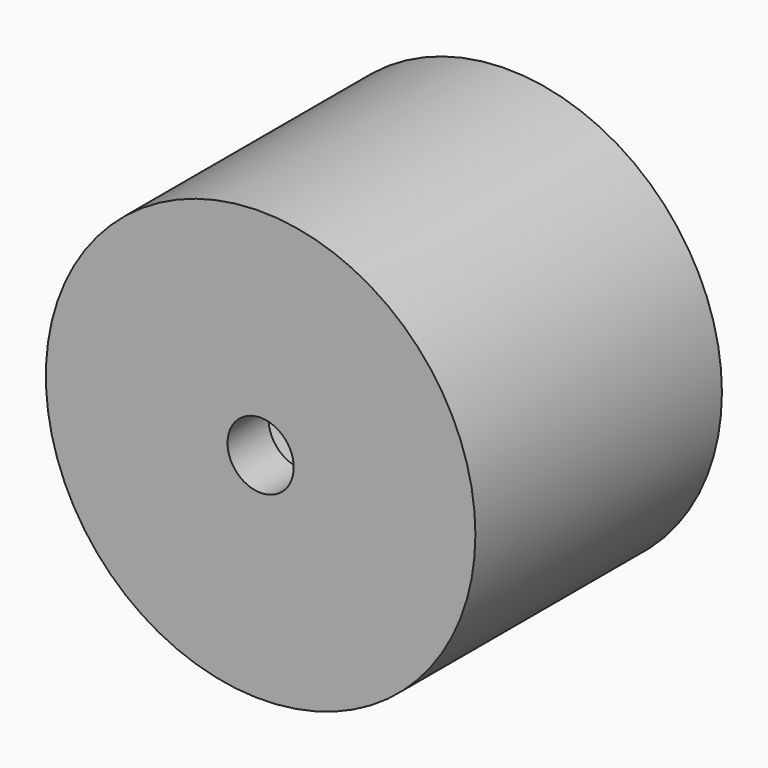
from build123d import *

# Parameters (mm, degrees)
F0_R     = 106.21854
F1_DEPTH = 152.4
F2_R     = 101.492892
F3_DEPTH = 127
F4_R     = 97.458229
F5_DEPTH = 127
F6_R     = 16.367238
F7_DEPTH = 25.4


with BuildPart() as f1:
    # F0 (on Front) → F1 (new body)
    with BuildSketch(Plane.XZ):
        with Locations((-36.333058, -47.356166)):
            Circle(F0_R)
    extrude(amount=-F1_DEPTH)

    # F2 (on face) → F3 (join)
    with BuildSketch(Plane.XZ):
        with Locations((-36.333058, -47.356166)):
            Circle(F2_R)
    extrude(amount=-F3_DEPTH)

    # F4 (on face) → F5 (cut)
    with BuildSketch(Plane(origin=(0, 152.4, 0), x_dir=(-1, 0, 0), z_dir=(0, 1, 0))):
        with Locations((36.333058, -47.356166)):
            Circle(F4_R)
    extrude(amount=-F5_DEPTH, mode=Mode.SUBTRACT)

    # F6 (on face) → F7 (cut)
    with BuildSketch(Plane.XZ):
        with Locations((-36.333058, -47.356166)):
            Circle(F6_R)
    extrude(amount=-F7_DEPTH, mode=Mode.SUBTRACT)


solid = f1.part
